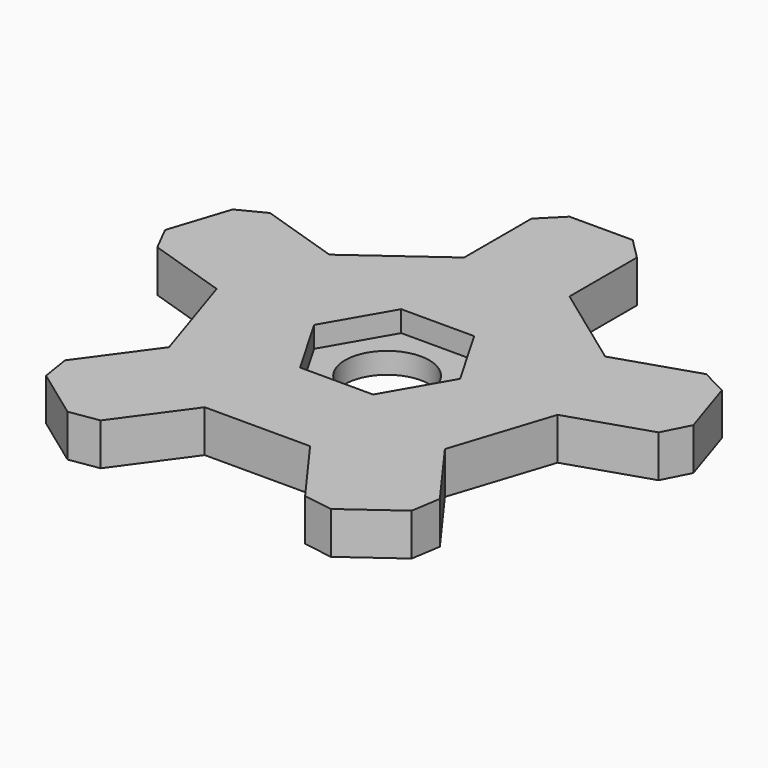
from build123d import *

# Parameters (mm, degrees)
F1_DEPTH = 10
F2_DEPTH = 25
F3_DEPTH = 25
F4_DEPTH = 25
F5_DEPTH = 25
F6_DEPTH = 25
F7_SIZE  = 5
F0_R     = 10
F8_DEPTH = 5


with BuildPart() as f1:
    # F0 (on Top) → F1 (new body)
    with BuildSketch(Plane.XY):
        Polygon((12.5, 38.4710442147), (-12.5, 38.4710442147), (-32.7254248594, 23.7764129074), (-40.4508497187, 0), (-32.7254248594, -23.7764129074), (-12.5, -38.4710442147), (12.5, -38.4710442147), (32.7254248594, -23.7764129074), (40.4508497187, 0), (32.7254248594, 23.7764129074), align=None)
        Polygon((-17.3205080757, 0), (-8.6602540378, 15), (8.6602540378, 15), (17.3205080757, 0), (8.6602540378, -15), (-8.6602540378, -15), align=None, mode=Mode.SUBTRACT)
    extrude(amount=F1_DEPTH)

    # F2 (add): a face of the model
    f2_faces = [f1.faces().sort_by_distance(p)[0] for p in [
        (36.5881372891, 11.8882064537, 5),
    ]]
    extrude(f2_faces, amount=F2_DEPTH)

    # F3 (add): a face of the model
    f3_faces = [f1.faces().sort_by_distance(p)[0] for p in [
        (0, 38.4710442147, 5),
    ]]
    extrude(f3_faces, amount=F3_DEPTH)

    # F4 (add): a face of the model
    f4_faces = [f1.faces().sort_by_distance(p)[0] for p in [
        (22.6127124297, -31.123728561, 5),
    ]]
    extrude(f4_faces, amount=F4_DEPTH)

    # F5 (add): a face of the model
    f5_faces = [f1.faces().sort_by_distance(p)[0] for p in [
        (-36.5881372891, 11.8882064537, 5),
    ]]
    extrude(f5_faces, amount=F5_DEPTH)

    # F6 (add): a face of the model
    f6_faces = [f1.faces().sort_by_distance(p)[0] for p in [
        (-22.6127124297, -31.123728561, 5),
    ]]
    extrude(f6_faces, amount=F6_DEPTH)

    # F7
    f7_edges = [f1.edges().sort_by_distance(p)[0] for p in [
        (-64.227263, 7.725425, 5),
        (-56.501838, 31.501838, 5),
        (-12.5, 63.471044, 5),
        (-47.420056, -44.001838, 5),
        (-27.194631, -58.696469, 5),
        (27.194631, -58.696469, 5),
        (64.227263, 7.725425, 5),
        (12.5, 63.471044, 5),
        (56.501838, 31.501838, 5),
        (47.420056, -44.001838, 5),
    ]]
    chamfer(f7_edges, length=F7_SIZE)

    # F0 (on Top) → F8 (join)
    with BuildSketch(Plane.XY):
        Polygon((8.6602540378, 15), (-8.6602540378, 15), (-17.3205080757, 0), (-8.6602540378, -15), (8.6602540378, -15), (17.3205080757, 0), align=None)
        Circle(F0_R, mode=Mode.SUBTRACT)
    extrude(amount=F8_DEPTH)


solid = f1.part
